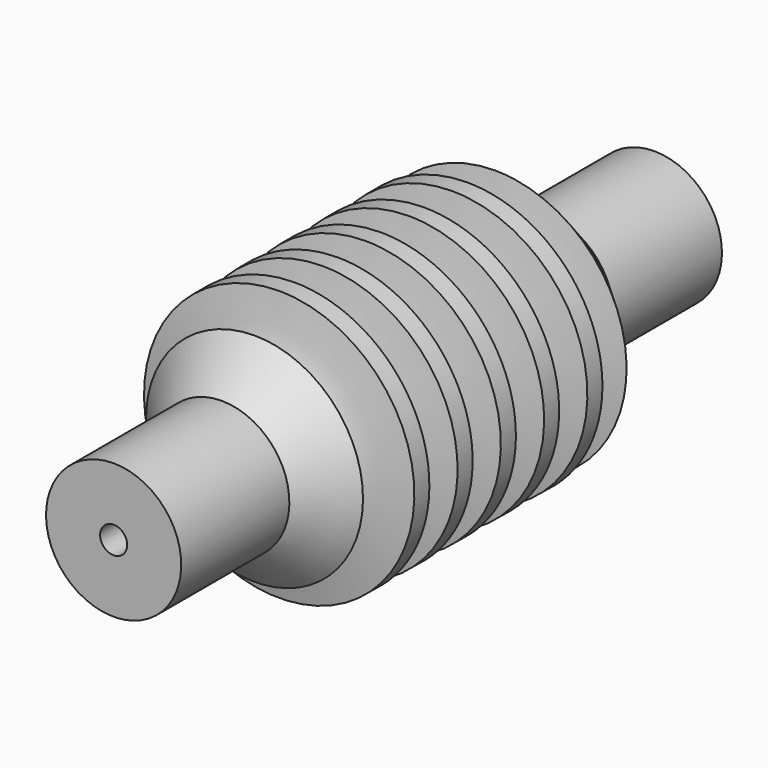
from build123d import *


with BuildPart() as part:
    # Sketch → Revolution (revolve)
    with BuildSketch(Plane.YZ):
        Polygon((5, 0), (5, 0.5), (0, 0.5), (0, 2.5), (5, 2.5), (7.5, 5), (17.5, 5), (20, 2.5), (25, 2.5), (25, 0), align=None)
    revolve(axis=Axis((0, 0, 0), (0, 1, 0)))

    # Sketch001 → Groove (revolve, cut)
    with BuildSketch(Plane.YZ):
        with BuildLine():
            add(Edge.make_bspline(
                [(5, 3), (6.517618, 3), (5.758809, 12), (5, 21), (4.241191, 12), (3.482382, 3), (5, 3)],
                knots=[0, 0, 0, 2.094395, 2.094395, 4.18879, 4.18879, 6.283185, 6.283185, 6.283185], degree=2, weights=[1, 0.5, 1, 0.5, 1, 0.5, 1]))
        make_face()
        with BuildLine():
            add(Edge.make_bspline(
                [(7, 3), (8.517617, 3), (7.758809, 12), (7, 21), (6.241191, 12), (5.482383, 3), (7, 3)],
                knots=[0, 0, 0, 2.094395, 2.094395, 4.18879, 4.18879, 6.283185, 6.283185, 6.283185], degree=2, weights=[1, 0.5, 1, 0.5, 1, 0.5, 1]))
        make_face()
        with BuildLine():
            add(Edge.make_bspline(
                [(9, 3), (10.517615, 3), (9.758808, 12), (9, 21), (8.241192, 12), (7.482385, 3), (9, 3)],
                knots=[0, 0, 0, 2.094395, 2.094395, 4.18879, 4.18879, 6.283185, 6.283185, 6.283185], degree=2, weights=[1, 0.5, 1, 0.5, 1, 0.5, 1]))
        make_face()
        with BuildLine():
            add(Edge.make_bspline(
                [(11, 3), (12.517616, 3), (11.758808, 12), (11, 21), (10.241192, 12), (9.482384, 3), (11, 3)],
                knots=[0, 0, 0, 2.094395, 2.094395, 4.18879, 4.18879, 6.283185, 6.283185, 6.283185], degree=2, weights=[1, 0.5, 1, 0.5, 1, 0.5, 1]))
        make_face()
        with BuildLine():
            add(Edge.make_bspline(
                [(13, 3), (14.517618, 3), (13.758809, 12), (13, 21), (12.241191, 12), (11.482382, 3), (13, 3)],
                knots=[0, 0, 0, 2.094395, 2.094395, 4.18879, 4.18879, 6.283185, 6.283185, 6.283185], degree=2, weights=[1, 0.5, 1, 0.5, 1, 0.5, 1]))
        make_face()
        with BuildLine():
            add(Edge.make_bspline(
                [(15, 3), (16.517619, 3), (15.75881, 12), (15, 21), (14.24119, 12), (13.482381, 3), (15, 3)],
                knots=[0, 0, 0, 2.094395, 2.094395, 4.18879, 4.18879, 6.283185, 6.283185, 6.283185], degree=2, weights=[1, 0.5, 1, 0.5, 1, 0.5, 1]))
        make_face()
        with BuildLine():
            add(Edge.make_bspline(
                [(17, 3), (18.517614, 3), (17.758807, 12), (17, 21), (16.241193, 12), (15.482386, 3), (17, 3)],
                knots=[0, 0, 0, 2.094395, 2.094395, 4.18879, 4.18879, 6.283185, 6.283185, 6.283185], degree=2, weights=[1, 0.5, 1, 0.5, 1, 0.5, 1]))
        make_face()
        with BuildLine():
            add(Edge.make_bspline(
                [(19, 3), (20.51762, 3), (19.75881, 12), (19, 21), (18.24119, 12), (17.48238, 3), (19, 3)],
                knots=[0, 0, 0, 2.094395, 2.094395, 4.18879, 4.18879, 6.283185, 6.283185, 6.283185], degree=2, weights=[1, 0.5, 1, 0.5, 1, 0.5, 1]))
        make_face()
        with BuildLine():
            add(Edge.make_bspline(
                [(21, 3), (22.517614, 3), (21.758807, 12), (21, 21), (20.241193, 12), (19.482386, 3), (21, 3)],
                knots=[0, 0, 0, 2.094395, 2.094395, 4.18879, 4.18879, 6.283185, 6.283185, 6.283185], degree=2, weights=[1, 0.5, 1, 0.5, 1, 0.5, 1]))
        make_face()
        with BuildLine():
            add(Edge.make_bspline(
                [(23, 3), (24.517621, 3), (23.758811, 12), (23, 21), (22.241189, 12), (21.482379, 3), (23, 3)],
                knots=[0, 0, 0, 2.094395, 2.094395, 4.18879, 4.18879, 6.283185, 6.283185, 6.283185], degree=2, weights=[1, 0.5, 1, 0.5, 1, 0.5, 1]))
        make_face()
    revolve(axis=Axis((0, 0, 0), (0, 1, 0)), mode=Mode.SUBTRACT)


solid = part.part
